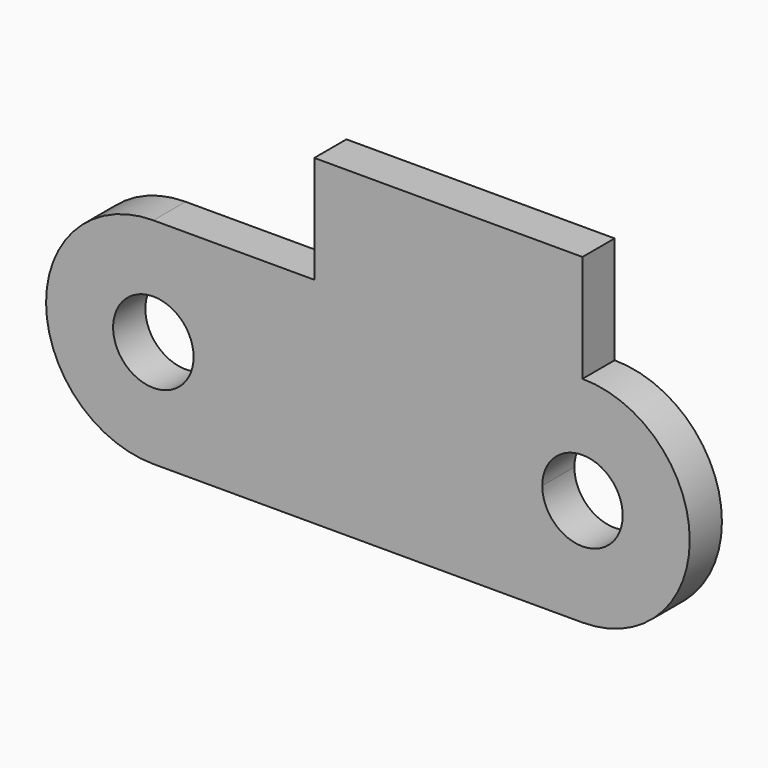
from build123d import *

# Parameters (mm, degrees)
F0_R     = 3
F1_DEPTH = 3


with BuildPart() as f1:
    # F0 (on Front) → F1 (new body)
    with BuildSketch(Plane.XZ):
        with BuildLine():
            ThreePointArc((16, -8), (24, 0), (16, 8))
            Line((16, 8), (16, 16))
            Line((16, 16), (-4, 16))
            Line((-4, 16), (-4, 8))
            Line((-4, 8), (-16, 8))
            ThreePointArc((-16, 8), (-24, 0), (-16, -8))
            Line((-16, -8), (16, -8))
        make_face()
        with Locations((-16, 0)):
            Circle(F0_R, mode=Mode.SUBTRACT)
        with BuildLine():
            ThreePointArc((19, 0), (16, -3), (13, 0))
            ThreePointArc((13, 0), (13.8786796564, 2.1213203436), (16, 3))
            ThreePointArc((16, 3), (18.1213203436, 2.1213203436), (19, 0))
        make_face(mode=Mode.SUBTRACT)
    extrude(amount=F1_DEPTH)


solid = f1.part
